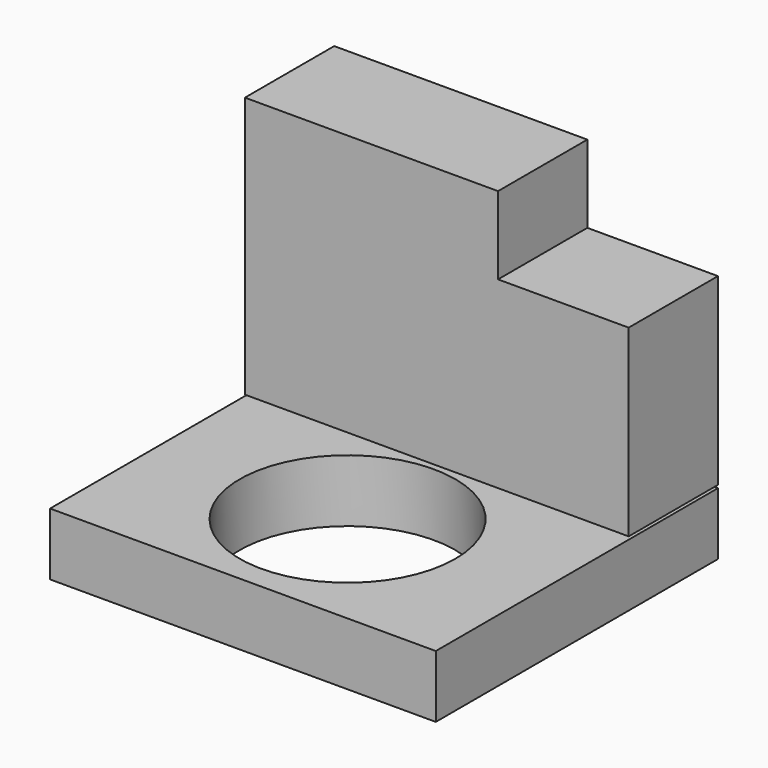
from build123d import *

# Parameters (mm, degrees)
F0_W     = 87.3286351562
F0_H     = 59.5039390028
F1_DEPTH = 25.4
F2_W     = 29.7251585871
F2_H     = 17.6822375506
F3_DEPTH = 25.401
F4_W     = 87.786115706
F4_H     = 14.2035968602
F5_DEPTH = 25.4
F6_DEPTH = 54.864
F7_R     = 24.5367923139
F8_DEPTH = 74.3726135621


with BuildPart() as f1:
    # F0 (on Front) → F1 (new body)
    with BuildSketch(Plane.XZ):
        with Locations((-43.6643175781, -29.7519695014)):
            Rectangle(F0_W, F0_H)
    extrude(amount=F1_DEPTH)

    # F2 (on Front) → F3 (cut, through all)
    with BuildSketch(Plane.XZ):
        with Locations((-14.8625792935, -8.8411187753)):
            Rectangle(F2_W, F2_H)
    extrude(amount=F3_DEPTH, mode=Mode.SUBTRACT)


with BuildPart() as f5:
    # F4 (on Front) → F5 (new body)
    with BuildSketch(Plane.XZ):
        with Locations((-43.893057853, -67.269815132)):
            Rectangle(F4_W, F4_H)
    extrude(amount=F5_DEPTH)

    # F6 (add): a face of the model
    f6_faces = [f5.faces().sort_by_distance(p)[0] for p in [
        (-43.893057853, -25.4, -67.269815132),
    ]]
    extrude(f6_faces, amount=F6_DEPTH)

    # F7 (on Top) → F8 (cut, through all)
    with BuildSketch(Plane.XY):
        with Locations((-43.99003461, -50.3762103617)):
            Circle(F7_R)
    extrude(amount=-F8_DEPTH, mode=Mode.SUBTRACT)


solid = Compound([f1.part, f5.part])
